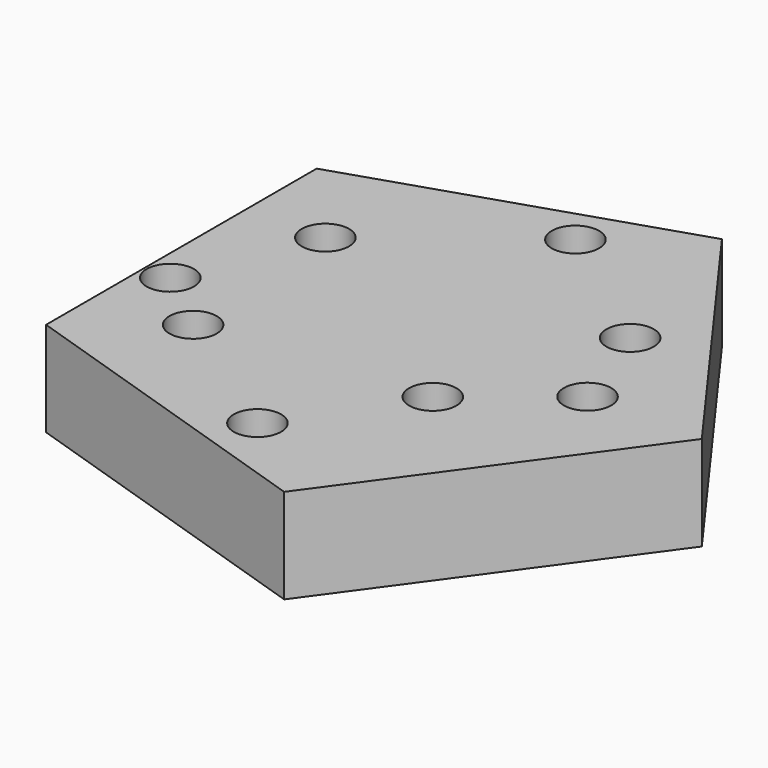
from build123d import *

# Parameters (mm, degrees)
F1_DEPTH = 25.4
F3_D     = 12.7


with BuildPart() as f1:
    # F0 (on Top) → F1 (new body)
    with BuildSketch(Plane.XY):
        Polygon((23.8434199943, -73.3825011863), (77.1589279175, 0), (23.8434199943, 73.3825011863), (-62.422883953, 45.3528799126), (-62.422883953, -45.3528799126), align=None)
    extrude(amount=F1_DEPTH)

    # F3 (through all)
    with Locations(Plane(origin=(0, 0, 0), x_dir=(1, 0, 0), z_dir=(0, 0, -1))):
        with Locations((-38.3637174964, 26.1386595666), (0, 52.523933351), (21.2496295571, 20.3067082912), (46.5075112879, 0), (36.8204265833, -26.3883601874), (-55.4247796535, 12.4628739432), (-41.4367616177, -22.0436118543), (0, -54.0669187903)):
            Hole(F3_D / 2)


solid = f1.part
